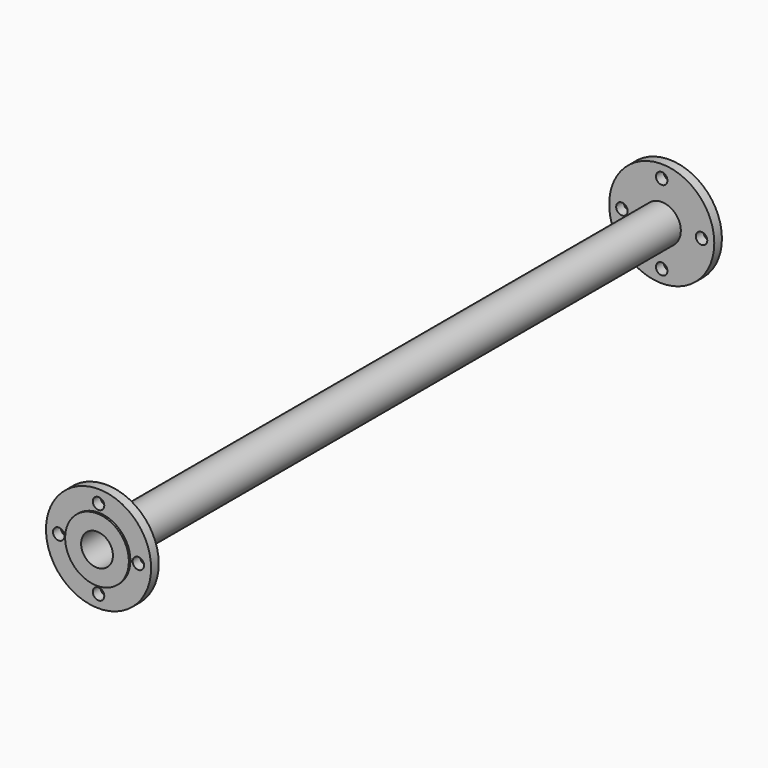
from build123d import *

# Parameters (mm, degrees)
F0_R     = 30
F0_R_2   = 25
F1_DEPTH = 1120
F0_R_3   = 82.5
F0_R_4   = 9
F2_DEPTH = 15
F3_R     = 82.5
F3_R_2   = 9
F3_R_3   = 30
F4_DEPTH = 15
F5_R     = 50
F5_R_2   = 25
F6_DEPTH = 3


with BuildPart() as f1:
    # F0 (on Front) → F1 (new body)
    with BuildSketch(Plane.XZ):
        Circle(F0_R)
        Circle(F0_R_2, mode=Mode.SUBTRACT)
    extrude(amount=F1_DEPTH)

    # F0 (on Front) → F2 (join)
    with BuildSketch(Plane.XZ):
        Circle(F0_R_3)
        with Locations((0, -62.5)):
            Circle(F0_R_4, mode=Mode.SUBTRACT)
        with Locations((-62.5, 0)):
            Circle(F0_R_4, mode=Mode.SUBTRACT)
        Circle(F0_R, mode=Mode.SUBTRACT)
        with Locations((62.5, 0)):
            Circle(F0_R_4, mode=Mode.SUBTRACT)
        with Locations((0, 62.5)):
            Circle(F0_R_4, mode=Mode.SUBTRACT)
    extrude(amount=F2_DEPTH)

    # F3 (on face) → F4 (join)
    with BuildSketch(Plane.XZ.offset(1120)):
        Circle(F3_R)
        with Locations((0, -62.5)):
            Circle(F3_R_2, mode=Mode.SUBTRACT)
        with Locations((-62.5, 0)):
            Circle(F3_R_2, mode=Mode.SUBTRACT)
        Circle(F3_R_3, mode=Mode.SUBTRACT)
        with Locations((62.5, 0)):
            Circle(F3_R_2, mode=Mode.SUBTRACT)
        with Locations((0, 62.5)):
            Circle(F3_R_2, mode=Mode.SUBTRACT)
    extrude(amount=-F4_DEPTH)

    # F5 (on face) → F6 (join)
    with BuildSketch(Plane.XZ.offset(1120)):
        Circle(F5_R)
        Circle(F5_R_2, mode=Mode.SUBTRACT)
    extrude(amount=F6_DEPTH)


solid = f1.part
